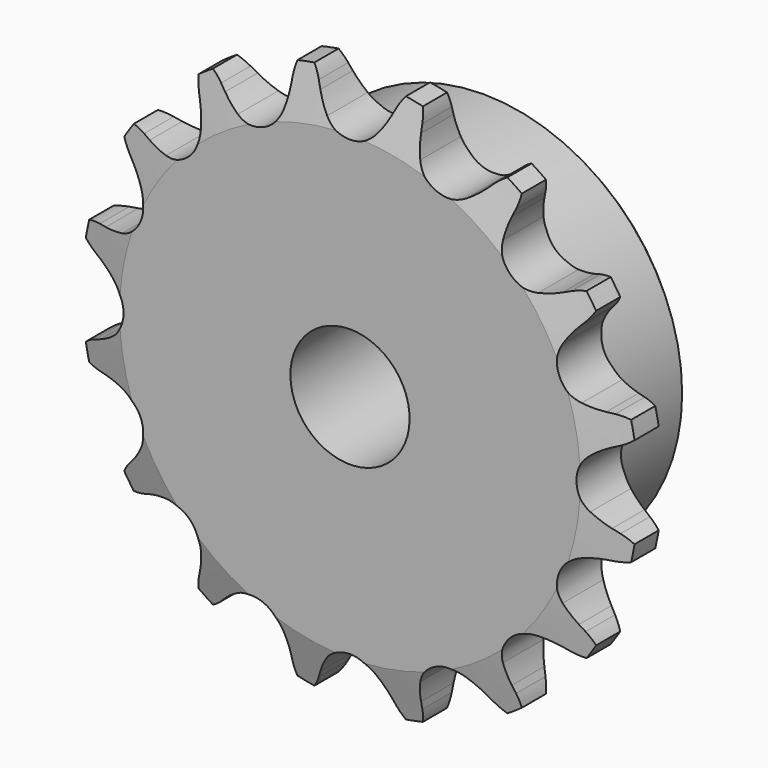
from build123d import *

# Parameters (mm, degrees)
F0_W     = 7
F0_H     = 10
F0_H_2   = 17.5
F0_W_2   = 15
F2_R     = 1.5
F3_SIZE  = 1
F4_SIZE2 = 6
F4_SIZE  = 1.6
F6_DEPTH = 25


with BuildPart() as f1:
    # F0 (on Right) → F1 (revolve)
    with BuildSketch(Plane.YZ):
        with Locations((-6.3344368187, 30)):
            Rectangle(F0_W, F0_H)
        with Locations((-6.3344368187, 16.25)):
            Rectangle(F0_W, F0_H_2)
        with Locations((4.6655631813, 16.25)):
            Rectangle(F0_W_2, F0_H_2)
    revolve(axis=Axis((0, 1.1655631813, 0), (0, 1, 0)))

    # F2
    f2_edges = [f1.edges().sort_by_distance(p)[0] for p in [
        (0, -2.834437, -25),
    ]]
    fillet(f2_edges, radius=F2_R)

    # F3
    f3_edges = [f1.edges().sort_by_distance(p)[0] for p in [
        (0, 12.165563, -25),
    ]]
    chamfer(f3_edges, length=F3_SIZE)

    # F4
    f4_edges = [f1.edges().sort_by_distance(p)[0] for p in [
        (0, -9.834437, -35),
        (0, -2.834437, -35),
    ]]
    f4_side = f1.faces().sort_by_distance((0, -6.334437, -35))[0]
    chamfer(f4_edges, length=F4_SIZE, length2=F4_SIZE2, reference=f4_side)

    # F5 (on face) → F6 (intersect)
    with BuildSketch(Plane.XZ.offset(9.8344368187)):
        with BuildLine():
            Line((-4.4844706834, 32.2236739238), (-4.8748160406, 33.0902084846))
            ThreePointArc((-4.8748160406, 33.0902084846), (-5.8127764453, 34.5905284488), (-7.1180894967, 35.7850524352))
            ThreePointArc((-7.1180894967, 35.7850524352), (-7.8669169692, 34.1819344943), (-8.1593317959, 32.43687768))
            Line((-8.1593317959, 32.43687768), (-8.1883554621, 31.486925434))
            ThreePointArc((-8.1883554621, 31.486925434), (-8.3109538021, 30.1839023325), (-8.5970121343, 28.9067687505))
            ThreePointArc((-8.5970121343, 28.9067687505), (-10.9064778224, 26.3305666766), (-14.3611666275, 26.5191777838))
            ThreePointArc((-14.3611666275, 26.5191777838), (-15.4665102305, 27.2199738136), (-16.4745768191, 28.0546601671))
            Line((-16.4745768191, 28.0546601671), (-17.1668173252, 28.7058550109))
            ThreePointArc((-17.1668173252, 28.7058550109), (-18.607527339, 29.7330280109), (-20.2706038898, 30.3371025942))
            ThreePointArc((-20.2706038898, 30.3371025942), (-20.348943589, 28.569450873), (-19.951295331, 26.8453262897))
            Line((-19.951295331, 26.8453262897), (-19.614578716, 25.9565779765))
            ThreePointArc((-19.614578716, 25.9565779765), (-19.2291994602, 24.7058252492), (-19.0047450357, 23.416437888))
            ThreePointArc((-19.0047450357, 23.416437888), (-20.1525432638, 20.1525432638), (-23.416437888, 19.0047450357))
            ThreePointArc((-23.416437888, 19.0047450357), (-24.7058252492, 19.2291994602), (-25.9565779765, 19.614578716))
            Line((-25.9565779765, 19.614578716), (-26.8453262897, 19.951295331))
            ThreePointArc((-26.8453262897, 19.951295331), (-28.569450873, 20.348943589), (-30.3371025942, 20.2706038898))
            ThreePointArc((-30.3371025942, 20.2706038898), (-29.7330280109, 18.607527339), (-28.7058550109, 17.1668173252))
            Line((-28.7058550109, 17.1668173252), (-28.0546601671, 16.4745768191))
            ThreePointArc((-28.0546601671, 16.4745768191), (-27.2199738136, 15.4665102305), (-26.5191777838, 14.3611666275))
            ThreePointArc((-26.5191777838, 14.3611666275), (-26.3305666766, 10.9064778224), (-28.9067687505, 8.5970121343))
            ThreePointArc((-28.9067687505, 8.5970121343), (-30.1839023325, 8.3109538021), (-31.486925434, 8.1883554621))
            Line((-31.486925434, 8.1883554621), (-32.43687768, 8.1593317959))
            ThreePointArc((-32.43687768, 8.1593317959), (-34.1819344943, 7.8669169692), (-35.7850524352, 7.1180894967))
            ThreePointArc((-35.7850524352, 7.1180894967), (-34.5905284488, 5.8127764453), (-33.0902084846, 4.8748160406))
            Line((-33.0902084846, 4.8748160406), (-32.2236739238, 4.4844706834))
            ThreePointArc((-32.2236739238, 4.4844706834), (-31.0667539036, 3.8725592334), (-29.9963061113, 3.1195379324))
            ThreePointArc((-29.9963061113, 3.1195379324), (-28.5, 0), (-29.9963061113, -3.1195379324))
            ThreePointArc((-29.9963061113, -3.1195379324), (-31.0667539036, -3.8725592334), (-32.2236739238, -4.4844706834))
            Line((-32.2236739238, -4.4844706834), (-33.0902084846, -4.8748160406))
            ThreePointArc((-33.0902084846, -4.8748160406), (-34.5905284488, -5.8127764453), (-35.7850524352, -7.1180894967))
            ThreePointArc((-35.7850524352, -7.1180894967), (-34.1819344943, -7.8669169692), (-32.43687768, -8.1593317959))
            Line((-32.43687768, -8.1593317959), (-31.486925434, -8.1883554621))
            ThreePointArc((-31.486925434, -8.1883554621), (-30.1839023325, -8.3109538021), (-28.9067687505, -8.5970121343))
            ThreePointArc((-28.9067687505, -8.5970121343), (-26.3305666766, -10.9064778224), (-26.5191777838, -14.3611666275))
            ThreePointArc((-26.5191777838, -14.3611666275), (-27.2199738136, -15.4665102305), (-28.0546601671, -16.4745768191))
            Line((-28.0546601671, -16.4745768191), (-28.7058550109, -17.1668173252))
            ThreePointArc((-28.7058550109, -17.1668173252), (-29.7330280109, -18.607527339), (-30.3371025942, -20.2706038898))
            ThreePointArc((-30.3371025942, -20.2706038898), (-28.569450873, -20.348943589), (-26.8453262897, -19.951295331))
            Line((-26.8453262897, -19.951295331), (-25.9565779765, -19.614578716))
            ThreePointArc((-25.9565779765, -19.614578716), (-24.7058252492, -19.2291994602), (-23.416437888, -19.0047450357))
            ThreePointArc((-23.416437888, -19.0047450357), (-20.1525432638, -20.1525432638), (-19.0047450357, -23.416437888))
            ThreePointArc((-19.0047450357, -23.416437888), (-19.2291994602, -24.7058252492), (-19.614578716, -25.9565779765))
            Line((-19.614578716, -25.9565779765), (-19.951295331, -26.8453262897))
            ThreePointArc((-19.951295331, -26.8453262897), (-20.348943589, -28.569450873), (-20.2706038898, -30.3371025942))
            ThreePointArc((-20.2706038898, -30.3371025942), (-18.607527339, -29.7330280109), (-17.1668173252, -28.7058550109))
            Line((-17.1668173252, -28.7058550109), (-16.4745768191, -28.0546601671))
            ThreePointArc((-16.4745768191, -28.0546601671), (-15.4665102305, -27.2199738136), (-14.3611666275, -26.5191777838))
            ThreePointArc((-14.3611666275, -26.5191777838), (-10.9064778224, -26.3305666766), (-8.5970121343, -28.9067687505))
            ThreePointArc((-8.5970121343, -28.9067687505), (-8.3109538021, -30.1839023325), (-8.1883554621, -31.486925434))
            Line((-8.1883554621, -31.486925434), (-8.1593317959, -32.43687768))
            ThreePointArc((-8.1593317959, -32.43687768), (-7.8669169692, -34.1819344943), (-7.1180894967, -35.7850524352))
            ThreePointArc((-7.1180894967, -35.7850524352), (-5.8127764453, -34.5905284488), (-4.8748160406, -33.0902084846))
            Line((-4.8748160406, -33.0902084846), (-4.4844706834, -32.2236739238))
            ThreePointArc((-4.4844706834, -32.2236739238), (-3.8725592334, -31.0667539036), (-3.1195379324, -29.9963061113))
            ThreePointArc((-3.1195379324, -29.9963061113), (0, -28.5), (3.1195379324, -29.9963061113))
            ThreePointArc((3.1195379324, -29.9963061113), (3.8725592334, -31.0667539036), (4.4844706834, -32.2236739238))
            Line((4.4844706834, -32.2236739238), (4.8748160406, -33.0902084846))
            ThreePointArc((4.8748160406, -33.0902084846), (5.8127764453, -34.5905284488), (7.1180894967, -35.7850524352))
            ThreePointArc((7.1180894967, -35.7850524352), (7.8669169692, -34.1819344943), (8.1593317959, -32.43687768))
            Line((8.1593317959, -32.43687768), (8.1883554621, -31.486925434))
            ThreePointArc((8.1883554621, -31.486925434), (8.3109538021, -30.1839023325), (8.5970121343, -28.9067687505))
            ThreePointArc((8.5970121343, -28.9067687505), (10.9064778224, -26.3305666766), (14.3611666275, -26.5191777838))
            ThreePointArc((14.3611666275, -26.5191777838), (15.4665102305, -27.2199738136), (16.4745768191, -28.0546601671))
            Line((16.4745768191, -28.0546601671), (17.1668173252, -28.7058550109))
            ThreePointArc((17.1668173252, -28.7058550109), (18.607527339, -29.7330280109), (20.2706038898, -30.3371025942))
            ThreePointArc((20.2706038898, -30.3371025942), (20.348943589, -28.569450873), (19.951295331, -26.8453262897))
            Line((19.951295331, -26.8453262897), (19.614578716, -25.9565779765))
            ThreePointArc((19.614578716, -25.9565779765), (19.2291994602, -24.7058252492), (19.0047450357, -23.416437888))
            ThreePointArc((19.0047450357, -23.416437888), (20.1525432638, -20.1525432638), (23.416437888, -19.0047450357))
            ThreePointArc((23.416437888, -19.0047450357), (24.7058252492, -19.2291994602), (25.9565779765, -19.614578716))
            Line((25.9565779765, -19.614578716), (26.8453262897, -19.951295331))
            ThreePointArc((26.8453262897, -19.951295331), (28.569450873, -20.348943589), (30.3371025942, -20.2706038898))
            ThreePointArc((30.3371025942, -20.2706038898), (29.7330280109, -18.607527339), (28.7058550109, -17.1668173252))
            Line((28.7058550109, -17.1668173252), (28.0546601671, -16.4745768191))
            ThreePointArc((28.0546601671, -16.4745768191), (27.2199738136, -15.4665102305), (26.5191777838, -14.3611666275))
            ThreePointArc((26.5191777838, -14.3611666275), (26.3305666766, -10.9064778224), (28.9067687505, -8.5970121343))
            ThreePointArc((28.9067687505, -8.5970121343), (30.1839023325, -8.3109538021), (31.486925434, -8.1883554621))
            Line((31.486925434, -8.1883554621), (32.43687768, -8.1593317959))
            ThreePointArc((32.43687768, -8.1593317959), (34.1819344943, -7.8669169692), (35.7850524352, -7.1180894967))
            ThreePointArc((35.7850524352, -7.1180894967), (34.5905284488, -5.8127764453), (33.0902084846, -4.8748160406))
            Line((33.0902084846, -4.8748160406), (32.2236739238, -4.4844706834))
            ThreePointArc((32.2236739238, -4.4844706834), (31.0667539036, -3.8725592334), (29.9963061113, -3.1195379324))
            ThreePointArc((29.9963061113, -3.1195379324), (28.5, 0), (29.9963061113, 3.1195379324))
            ThreePointArc((29.9963061113, 3.1195379324), (31.0667539036, 3.8725592334), (32.2236739238, 4.4844706834))
            Line((32.2236739238, 4.4844706834), (33.0902084846, 4.8748160406))
            ThreePointArc((33.0902084846, 4.8748160406), (34.5905284488, 5.8127764453), (35.7850524352, 7.1180894967))
            ThreePointArc((35.7850524352, 7.1180894967), (34.1819344943, 7.8669169692), (32.43687768, 8.1593317959))
            Line((32.43687768, 8.1593317959), (31.486925434, 8.1883554621))
            ThreePointArc((31.486925434, 8.1883554621), (30.1839023325, 8.3109538021), (28.9067687505, 8.5970121343))
            ThreePointArc((28.9067687505, 8.5970121343), (26.3305666766, 10.9064778224), (26.5191777838, 14.3611666275))
            ThreePointArc((26.5191777838, 14.3611666275), (27.2199738136, 15.4665102305), (28.0546601671, 16.4745768191))
            Line((28.0546601671, 16.4745768191), (28.7058550109, 17.1668173252))
            ThreePointArc((28.7058550109, 17.1668173252), (29.7330280109, 18.607527339), (30.3371025942, 20.2706038898))
            ThreePointArc((30.3371025942, 20.2706038898), (28.569450873, 20.348943589), (26.8453262897, 19.951295331))
            Line((26.8453262897, 19.951295331), (25.9565779765, 19.614578716))
            ThreePointArc((25.9565779765, 19.614578716), (24.7058252492, 19.2291994602), (23.416437888, 19.0047450357))
            ThreePointArc((23.416437888, 19.0047450357), (20.1525432638, 20.1525432638), (19.0047450357, 23.416437888))
            ThreePointArc((19.0047450357, 23.416437888), (19.2291994602, 24.7058252492), (19.614578716, 25.9565779765))
            Line((19.614578716, 25.9565779765), (19.951295331, 26.8453262897))
            ThreePointArc((19.951295331, 26.8453262897), (20.348943589, 28.569450873), (20.2706038898, 30.3371025942))
            ThreePointArc((20.2706038898, 30.3371025942), (18.607527339, 29.7330280109), (17.1668173252, 28.7058550109))
            Line((17.1668173252, 28.7058550109), (16.4745768191, 28.0546601671))
            ThreePointArc((16.4745768191, 28.0546601671), (15.4665102305, 27.2199738136), (14.3611666275, 26.5191777838))
            ThreePointArc((14.3611666275, 26.5191777838), (10.9064778224, 26.3305666766), (8.5970121343, 28.9067687505))
            ThreePointArc((8.5970121343, 28.9067687505), (8.3109538021, 30.1839023325), (8.1883554621, 31.486925434))
            Line((8.1883554621, 31.486925434), (8.1593317959, 32.43687768))
            ThreePointArc((8.1593317959, 32.43687768), (7.8669169692, 34.1819344943), (7.1180894967, 35.7850524352))
            ThreePointArc((7.1180894967, 35.7850524352), (5.8127764453, 34.5905284488), (4.8748160406, 33.0902084846))
            Line((4.8748160406, 33.0902084846), (4.4844706834, 32.2236739238))
            ThreePointArc((4.4844706834, 32.2236739238), (3.8725592334, 31.0667539036), (3.1195379324, 29.9963061113))
            ThreePointArc((3.1195379324, 29.9963061113), (0, 28.5), (-3.1195379324, 29.9963061113))
            ThreePointArc((-3.1195379324, 29.9963061113), (-3.8725592334, 31.0667539036), (-4.4844706834, 32.2236739238))
        make_face()
    extrude(amount=-F6_DEPTH, mode=Mode.INTERSECT)


solid = f1.part
